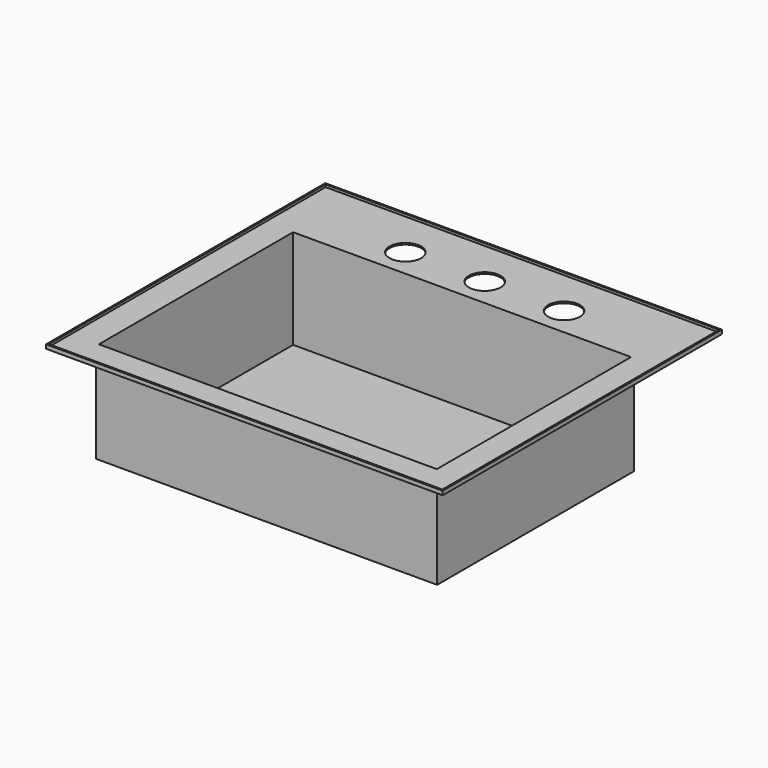
from build123d import *

# Parameters (mm, degrees)
F0_W     = 635
F0_H     = 558.8
F1_DEPTH = 6.35
F2_W     = 546.1
F2_H     = 393.7
F3_DEPTH = 158.75
F4_T     = -2.54
F2_R     = 25.4
F5_DEPTH = 25.4


with BuildPart() as f1:
    # F0 (on Top) → F1 (new body)
    with BuildSketch(Plane.XY):
        with Locations((-151.5700068397, -3.3926498145)):
            Rectangle(F0_W, F0_H)
    extrude(amount=F1_DEPTH)

    # F2 (on face) → F3 (join)
    with BuildSketch(Plane(origin=(0, 0, 0), x_dir=(1, 0, 0), z_dir=(0, 0, -1))):
        with Locations((-151.5700068397, 41.4926498145)):
            Rectangle(F2_W, F2_H)
    extrude(amount=F3_DEPTH)

    # F4
    f4_openings = [f1.faces().sort_by_distance(p)[0] for p in [
        (-151.570007, -3.39265, 6.35),
    ]]
    offset(amount=F4_T, openings=f4_openings, kind=Kind.INTERSECTION)

    # F2 (on face) → F5 (cut)
    with BuildSketch(Plane(origin=(0, 0, 0), x_dir=(1, 0, 0), z_dir=(0, 0, -1))):
        with Locations((-278.5700068397, -198.1609463692)):
            Circle(F2_R)
        with Locations((-151.5700068397, -198.1609463692)):
            Circle(F2_R)
        with Locations((-24.5700068397, -198.1609463692)):
            Circle(F2_R)
    extrude(amount=-F5_DEPTH, mode=Mode.SUBTRACT)


solid = f1.part
